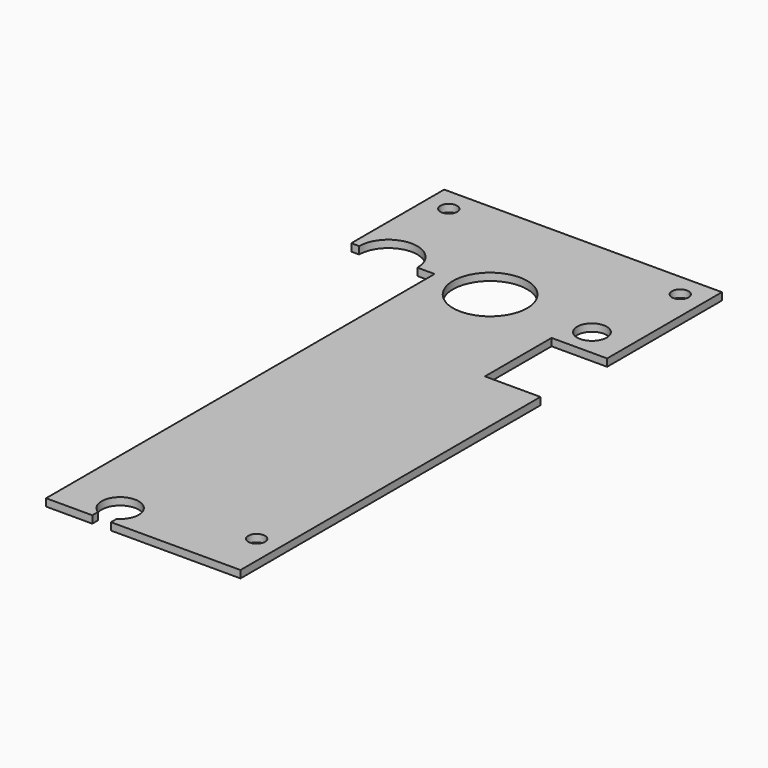
from build123d import *

# Parameters (mm, degrees)
SKETCH_R     = 8
SKETCH_R_2   = 3.2
SKETCH_R_3   = 4
SKETCH_R_4   = 1.8
PAD_DEPTH    = 1.6
SKETCH001_W  = 4.041902
SKETCH001_H  = 2.18935
POCKET_DEPTH = 5


with BuildPart() as part:
    # Sketch → Pad (new body)
    with BuildSketch(Plane.XY):
        with BuildLine():
            ThreePointArc((-15.710509, 39.802188), (-22, 46.091679), (-28.289491, 39.802188))
            Line((-28.289491, 39.802188), (-30, 39.802188))
            Line((-30, 39.802188), (-30, 64.895162))
            Line((-30, 64.895162), (30, 64.895162))
            Line((30, 33.895162), (30, 64.895162))
            Line((30, 33.895162), (18, 33.895162))
            Line((18, 33.895162), (18, 15.895162))
            Line((18, 15.895162), (30, 15.895162))
            Line((30, 15.895162), (30, -65.104838))
            Line((30, -65.104838), (-12, -65.104838))
            Line((-12, -49.414836), (-12, -65.104838))
            Line((-12, -8.197812), (-12, -49.414836))
            Line((-12, 39.802188), (-12, -8.197812))
            Line((-15.710509, 39.802188), (-12, 39.802188))
        make_face()
        with Locations((0, 39.802188)):
            Circle(SKETCH_R, mode=Mode.SUBTRACT)
        with Locations((22, 39.802188)):
            Circle(SKETCH_R_2, mode=Mode.SUBTRACT)
        with Locations((0, -60.104838)):
            Circle(SKETCH_R_3, mode=Mode.SUBTRACT)
        with Locations((25, -54.494838)):
            Circle(SKETCH_R_4, mode=Mode.SUBTRACT)
        with Locations((25, 59.895164)):
            Circle(SKETCH_R_4, mode=Mode.SUBTRACT)
        with Locations((-25, 59.895162)):
            Circle(SKETCH_R_4, mode=Mode.SUBTRACT)
    extrude(amount=PAD_DEPTH)

    # Sketch001 (on Face22 of Pad) → Pocket (cut)
    with BuildSketch(Plane.XY.offset(1.6)):
        with Locations((0, -64.491804)):
            Rectangle(SKETCH001_W, SKETCH001_H)
    extrude(amount=-POCKET_DEPTH, mode=Mode.SUBTRACT)


solid = part.part
